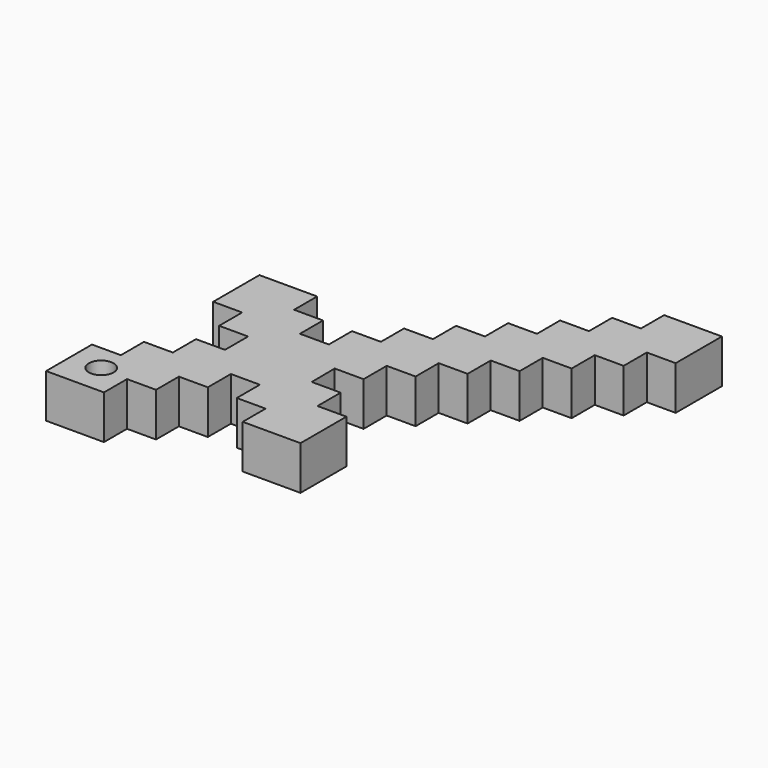
from build123d import *

# Parameters (mm, degrees)
F0_R     = 1.440777
F1_DEPTH = 5.08


with BuildPart() as f1:
    # F0 (on Top) → F1 (new body)
    with BuildSketch(Plane.XY):
        Polygon((-11.013938, -4.536753), (-11.013938, -7.890463), (-14.374876, -7.890463), (-14.374876, -4.541048), (-17.732572, -4.541048), (-17.732572, -1.193943), (-21.073323, -1.193943), (-24.437124, -1.193943), (-24.437124, -7.895267), (-21.073323, -7.895267), (-21.073323, -11.241171), (-17.711483, -11.241171), (-17.711483, -14.593675), (-21.073323, -14.593675), (-21.073323, -17.956657), (-24.423297, -17.956657), (-24.423297, -21.307357), (-27.770866, -21.307357), (-27.770866, -27.969323), (-21.055596, -27.969323), (-21.055596, -24.622558), (-17.690375, -24.622558), (-17.690375, -21.307357), (-14.332182, -21.307357), (-14.332182, -17.96297), (-10.971389, -17.96297), (-10.971389, -21.307357), (-7.630115, -21.307357), (-7.630115, -24.622558), (-4.274569, -24.622558), (-0.923152, -24.622558), (-0.923152, -17.96297), (-4.274569, -17.96297), (-4.274569, -14.605271), (-7.630115, -14.605271), (-7.660227, -11.244174), (-4.306516, -11.244174), (-4.306516, -7.890463), (-0.952804, -7.890463), (-0.952804, -4.536753), (2.400907, -4.536753), (2.400907, -1.18304), (5.754618, -1.18304), (5.754618, 2.170671), (9.108327, 2.170671), (9.108327, 5.52438), (12.462039, 5.52438), (12.462039, 8.878091), (15.81575, 8.878091), (15.81575, 15.585514), (9.108327, 15.585514), (9.108327, 12.231803), (5.754618, 12.231803), (5.754618, 8.878091), (2.400907, 8.878091), (2.400907, 5.52438), (-0.952804, 5.52438), (-0.952804, 2.170671), (-4.306516, 2.170671), (-4.306516, -1.18304), (-7.660227, -1.18304), (-7.660227, -4.536753), align=None)
        with Locations((-24.258496, -24.357161)):
            Circle(F0_R, mode=Mode.SUBTRACT)
    extrude(amount=F1_DEPTH)


solid = f1.part
